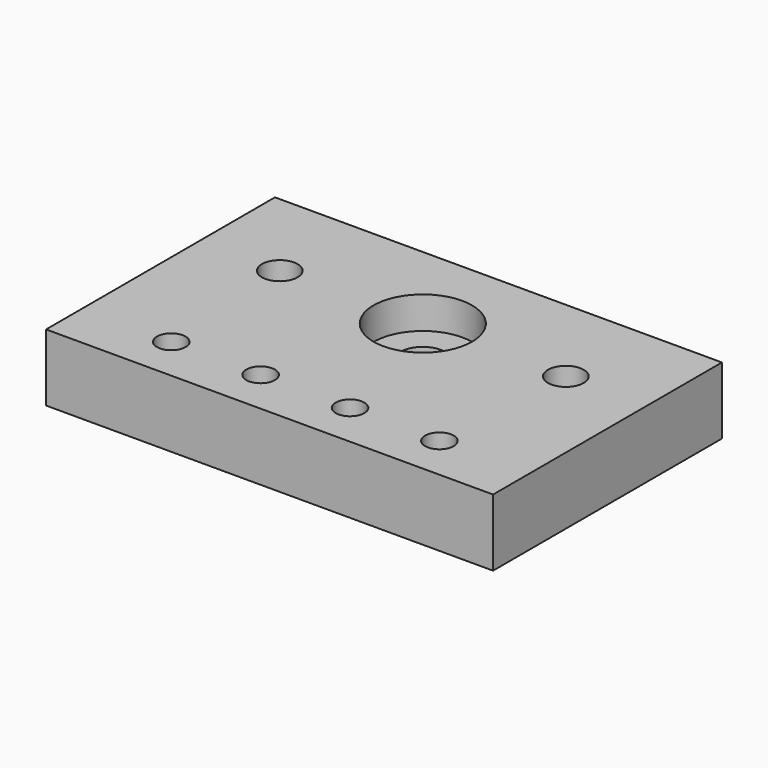
from build123d import *

# Parameters (mm, degrees)
SKETCH_W        = 100
SKETCH_H        = 64
SKETCH_R        = 5
SKETCH_R_2      = 3.2
SKETCH_R_3      = 4
PAD_DEPTH       = 15
SKETCH001_R     = 11.02
POCKET_DEPTH    = 7.2
SKETCH002_R     = 6
POCKET001_DEPTH = 6
SKETCH003_R     = 3.2
POCKET002_DEPTH = 15
SKETCH004_R     = 8.4
POCKET003_DEPTH = 8


with BuildPart() as part:
    # Sketch → Pad (new body)
    with BuildSketch(Plane.XY):
        with Locations((50, 32)):
            Rectangle(SKETCH_W, SKETCH_H)
        with Locations((50, 42.85)):
            Circle(SKETCH_R, mode=Mode.SUBTRACT)
        with Locations((20, 10)):
            Circle(SKETCH_R_2, mode=Mode.SUBTRACT)
        with Locations((80, 10)):
            Circle(SKETCH_R_2, mode=Mode.SUBTRACT)
        with Locations((82, 42.85)):
            Circle(SKETCH_R_3, mode=Mode.SUBTRACT)
        with Locations((18, 42.85)):
            Circle(SKETCH_R_3, mode=Mode.SUBTRACT)
    extrude(amount=PAD_DEPTH)

    # Sketch001 (on Face11 of Pad) → Pocket (cut)
    with BuildSketch(Plane.XY.offset(15)):
        with Locations((50, 42.85)):
            Circle(SKETCH001_R)
    extrude(amount=-POCKET_DEPTH, mode=Mode.SUBTRACT)

    # Sketch002 (on Face4 of Pocket) → Pocket001 (cut)
    with BuildSketch(Plane(origin=(0, 0, 0), x_dir=(1, 0, 0), z_dir=(0, 0, -1))):
        with Locations((20, -10)):
            Circle(SKETCH002_R)
        with Locations((80, -10)):
            Circle(SKETCH002_R)
        with Locations((40, -10)):
            Circle(SKETCH002_R)
        with Locations((60, -10)):
            Circle(SKETCH002_R)
    extrude(amount=-POCKET001_DEPTH, mode=Mode.SUBTRACT)

    # Sketch003 (on Face5 of Pocket001) → Pocket002 (cut)
    with BuildSketch(Plane.XY.offset(15)):
        with Locations((40, 10)):
            Circle(SKETCH003_R)
        with Locations((60, 10)):
            Circle(SKETCH003_R)
    extrude(amount=-POCKET002_DEPTH, mode=Mode.SUBTRACT)

    # Sketch004 (on Face4 of Pocket002) → Pocket003 (cut)
    with BuildSketch(Plane(origin=(0, 0, 0), x_dir=(1, 0, 0), z_dir=(0, 0, -1))):
        with Locations((18, -42.85)):
            Circle(SKETCH004_R)
        with Locations((82, -42.85)):
            Circle(SKETCH004_R)
    extrude(amount=-POCKET003_DEPTH, mode=Mode.SUBTRACT)


solid = part.part
